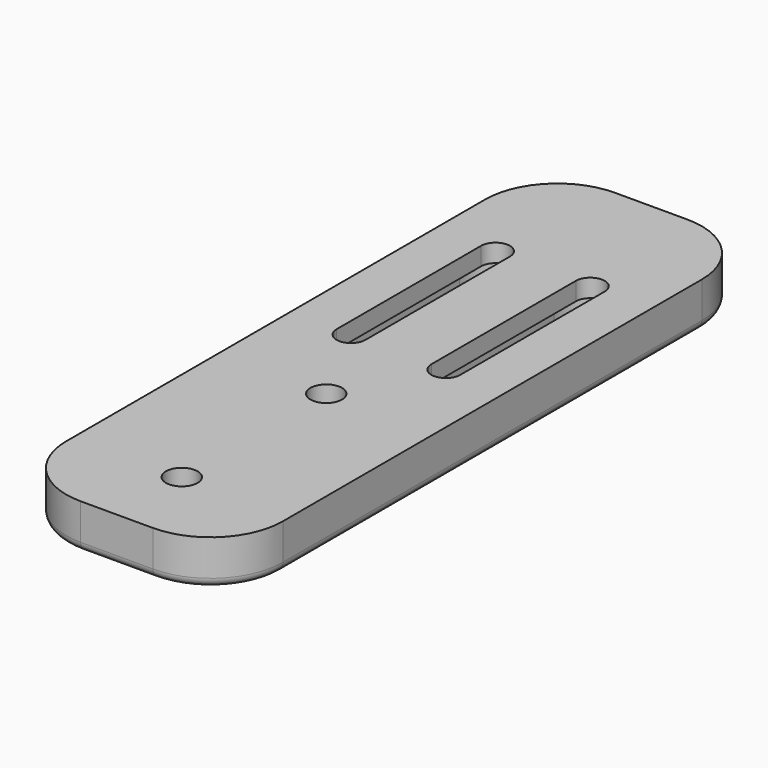
from build123d import *

# Parameters (mm, degrees)
SKETCH_W     = 24
SKETCH_H     = 74
SKETCH_R     = 1.75
PAD_DEPTH    = 5
SKETCH001_R  = 1.75
POCKET_DEPTH = 3
FILLET_R     = 8
FILLET001_R  = 1


with BuildPart() as part:
    # Sketch → Pad (new body)
    with BuildSketch(Plane.XY):
        with Locations((0, 8)):
            Rectangle(SKETCH_W, SKETCH_H)
        Circle(SKETCH_R, mode=Mode.SUBTRACT)
        with Locations((0, -20)):
            Circle(SKETCH_R, mode=Mode.SUBTRACT)
        with BuildLine():
            ThreePointArc((-6.85, 10), (-5.25, 8.4), (-3.65, 10))
            Line((-3.65, 10), (-3.65, 30))
            ThreePointArc((-3.65, 30), (-5.25, 31.6), (-6.85, 30))
            Line((-6.85, 10), (-6.85, 30))
        make_face(mode=Mode.SUBTRACT)
        with BuildLine():
            ThreePointArc((3.65, 10), (5.25, 8.4), (6.85, 10))
            Line((6.85, 10), (6.85, 30))
            ThreePointArc((6.85, 30), (5.25, 31.6), (3.65, 30))
            Line((3.65, 10), (3.65, 30))
        make_face(mode=Mode.SUBTRACT)
    extrude(amount=PAD_DEPTH)

    # Sketch001 → Pocket (cut)
    with BuildSketch(Plane.XY):
        Circle(SKETCH001_R)
        with Locations((0, -20)):
            Circle(SKETCH001_R)
        with BuildLine():
            ThreePointArc((1.25, 10), (5.25, 6), (9.25, 10))
            Line((9.25, 10), (9.25, 30))
            ThreePointArc((9.25, 30), (5.25, 34), (1.25, 30))
            Line((1.25, 10), (1.25, 30))
        make_face()
        with BuildLine():
            ThreePointArc((-9.25, 10), (-5.25, 6), (-1.25, 10))
            Line((-1.25, 10), (-1.25, 30))
            ThreePointArc((-1.25, 30), (-5.25, 34), (-9.25, 30))
            Line((-9.25, 10), (-9.25, 30))
        make_face()
    extrude(amount=POCKET_DEPTH, mode=Mode.SUBTRACT)

    # Fillet
    fillet_edges = [part.edges().sort_by_distance(p)[0] for p in [
        (-12, -29, 2.5),
        (12, -29, 2.5),
        (12, 45, 2.5),
        (-12, 45, 2.5),
    ]]
    fillet(fillet_edges, radius=FILLET_R)

    # Fillet001
    fillet001_edges = [part.edges().sort_by_distance(p)[0] for p in [
        (-12, 8, 0),
        (-9.656854, -26.656854, 0),
        (0, -29, 0),
        (9.656854, -26.656854, 0),
        (12, 8, 0),
        (0, 45, 0),
        (-9.656854, 42.656854, 0),
        (9.656854, 42.656854, 0),
    ]]
    fillet(fillet001_edges, radius=FILLET001_R)


solid = part.part
